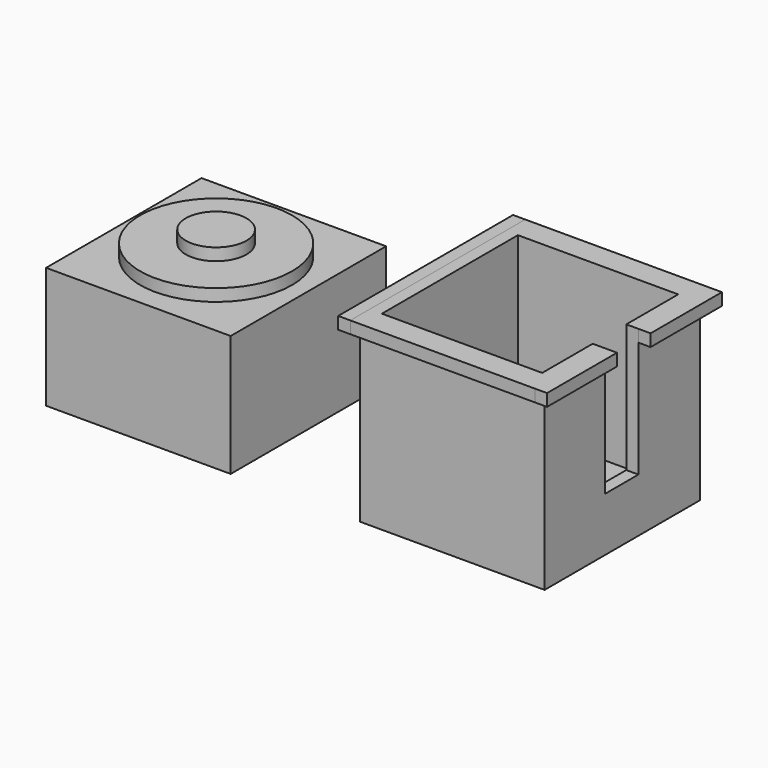
from build123d import *

# Parameters (mm, degrees)
F0_W      = 19.304
F0_H      = 20.32
F1_DEPTH  = 12.7
F2_R      = 7.9375
F3_DEPTH  = 1.27
F4_R      = 3.175
F5_DEPTH  = 1.27
F6_R      = 3.683
F7_DEPTH  = 1.143
F8_W      = 19.304
F8_H      = 20.32
F9_DEPTH  = 19.05
F10_T     = -1.27
F11_W     = 4.392277
F11_H     = 13.413998
F12_DEPTH = 1.778
F13_R     = 3.683
F14_DEPTH = 5.08
F15_W     = 19.304
F15_H     = 1.27
F16_DEPTH = 1.27
F17_W     = 19.304
F17_H     = 1.27
F18_DEPTH = 1.27
F20_DEPTH = 1.27
F21_W     = 9.142821
F21_H     = 1.27
F21_W_2   = 9.324902
F22_DEPTH = 1.27


with BuildPart() as f1:
    # F0 (on Top) → F1 (new body)
    with BuildSketch(Plane.XY):
        Rectangle(F0_W, F0_H)
    extrude(amount=F1_DEPTH)

    # F2 (on face) → F3 (join)
    with BuildSketch(Plane.XY.offset(12.7)):
        Circle(F2_R)
    extrude(amount=F3_DEPTH)

    # F4 (on face) → F5 (join)
    with BuildSketch(Plane.XY.offset(13.97)):
        Circle(F4_R)
    extrude(amount=F5_DEPTH)

    # F6 (on face) → F7 (cut)
    with BuildSketch(Plane(origin=(0, 0, 0), x_dir=(1, 0, 0), z_dir=(0, 0, -1))):
        Circle(F6_R)
    extrude(amount=-F7_DEPTH, mode=Mode.SUBTRACT)


with BuildPart() as f9:
    # F8 (on Top) → F9 (new body)
    with BuildSketch(Plane.XY):
        with Locations((32.829224, 0)):
            Rectangle(F8_W, F8_H)
    extrude(amount=F9_DEPTH)

    # F10
    f10_openings = [f9.faces().sort_by_distance(p)[0] for p in [
        (32.829224, 0, 19.05),
    ]]
    offset(amount=F10_T, openings=f10_openings)

    # F11 (on face) → F12 (cut)
    with BuildSketch(Plane.YZ.offset(42.481224)):
        with Locations((-0.091041, 12.343001)):
            Rectangle(F11_W, F11_H)
    extrude(amount=-F12_DEPTH, mode=Mode.SUBTRACT)

    # F13 (on face) → F14 (cut)
    with BuildSketch(Plane(origin=(0, 0, 0), x_dir=(1, 0, 0), z_dir=(0, 0, -1))):
        with Locations((32.829224, 0)):
            Circle(F13_R)
    extrude(amount=-F14_DEPTH, mode=Mode.SUBTRACT)

    # F15 (on face) → F16 (join)
    with BuildSketch(Plane.XZ.offset(10.16)):
        with Locations((32.829224, 18.415)):
            Rectangle(F15_W, F15_H)
    extrude(amount=F16_DEPTH)

    # F17 (on face) → F18 (join)
    with BuildSketch(Plane(origin=(0, 10.16, 0), x_dir=(-1, 0, 0), z_dir=(0, 1, 0))):
        with Locations((-32.829224, 18.415)):
            Rectangle(F17_W, F17_H)
    extrude(amount=F18_DEPTH)

    # F21 (on face) → F22 (join)
    with BuildSketch(Plane.YZ.offset(42.481224)):
        with Locations((-6.858589, 18.415)):
            Rectangle(F21_W, F21_H)
        with Locations((6.767549, 18.415)):
            Rectangle(F21_W_2, F21_H)
    extrude(amount=F22_DEPTH)


with BuildPart() as f20:
    # F19 (on face) → F20 (new body)
    with BuildSketch(Plane(origin=(23.177224, 0, 0), x_dir=(0, -1, 0), z_dir=(-1, 0, 0))):
        Polygon((11.43, 19.05), (-11.43, 19.05), (-11.43, 17.78), (-10.16, 17.78), (10.16, 17.78), (11.43, 17.78), align=None)
    extrude(amount=F20_DEPTH)


solid = Compound([f1.part, f9.part, f20.part])
